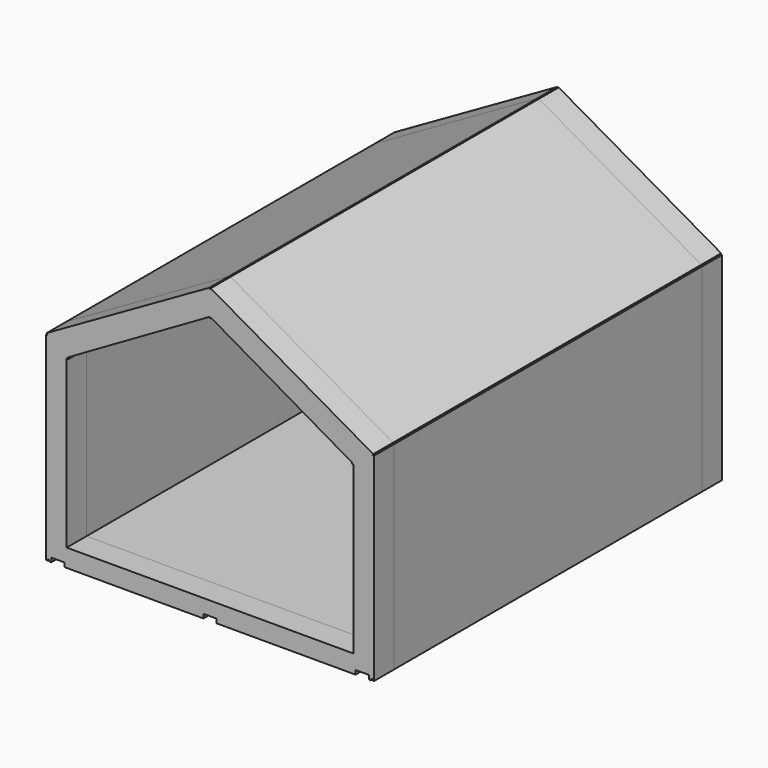
from build123d import *

# Parameters (mm, degrees)
F1_DEPTH = 4664
F2_DEPTH = 300
F3_DEPTH = 300


with BuildPart() as f1:
    # F0 (on Front) → F1 (new body)
    with BuildSketch(Plane.XZ):
        Polygon((3294.6332816305, -244.3458880704), (3294.6332816305, -258.3458880704), (3312.6332816305, -258.3458880704), (3312.6332816305, 2141.6541119296), (3294.6332816305, 2141.6541119296), align=None)
        Polygon((3274.6332816305, -244.3458880704), (3294.6332816305, -244.3458880704), (3294.6332816305, 2141.6541119296), (2775.2804956467, 2141.656879555), (3044.6332816305, 1985.7301119296), (3044.6332816305, 1967.7301119296), (3062.6332816303, 1967.7300208224), (3062.6332816305, -9.0428880704), (3062.6332816305, -27.0428880704), (3062.6332816305, -45.0428880704), (1328.4552816305, -45.0384992861), (1328.4552816305, -212.3458880704), (1408.4552816305, -212.3458880704), (1408.4552816305, -262.3458880704), (3089.6332816305, -262.3458880704), (3089.6332816305, -212.3458880704), (3249.6332816305, -212.3458880704), (3249.6332816305, -262.3458880704), (3274.6332816305, -262.3458880704), align=None)
        Polygon((2775.2804956467, 2141.656879555), (3294.6332816305, 2141.6541119296), (1328.4552816305, 3268.8451119296), (1328.4552816305, 2976.4171119296), (1328.4552816305, 2958.4171119296), (1337.4542676775, 2974.0061545598), align=None)
        Polygon((1328.4552816305, 3268.8451119296), (3294.6332816305, 2141.6541119296), (3303.5856912375, 2157.2699488342), (1337.4076912375, 3284.4609488342), align=None)
        Polygon((1328.4552816305, 2976.4171119296), (1328.4552816305, 3268.8451119296), (-637.7227183695, 2141.6750674118), (-122.4174122387, 2141.6723213555), (1319.4563547663, 2974.0061887237), (1328.4552816305, 2958.4171119296), align=None)
        Polygon((-637.7227183695, 2141.6750674118), (1328.4552816305, 3268.8451119296), (1319.5029972882, 3284.4610206465), (-649.0292205303, 2161.3975537515), align=None)
        Polygon((-122.4174122387, 2141.6723213555), (-637.7227183695, 2141.6750674118), (-637.7227183695, -244.3458880704), (-617.7227183695, -244.3458880704), (-617.7227183695, -262.3458880704), (-592.7227183695, -262.3458880704), (-592.7227183695, -212.3458880704), (-432.7227183695, -212.3458880704), (-432.7227183695, -262.3458880704), (1248.4552816305, -262.3458880704), (1248.4552816305, -212.3458880704), (1328.4552816305, -212.3458880704), (1328.4552816305, -45.0384992861), (-405.7227183693, -45.0341105019), (-405.7227183693, -27.0341105019), (-405.7227183693, -9.0341105019), (-405.7227183695, 1967.7387983908), (-387.7227183695, 1967.7387983908), (-396.7216452337, 1983.3278751849), align=None)
        Polygon((-637.7227183695, -244.3458880704), (-637.7227183695, 2141.6750674118), (-655.7227183695, 2141.6541119296), (-655.7227183695, -258.3458880704), (-637.7227183695, -258.3458880704), align=None)
    extrude(amount=F1_DEPTH)


with BuildPart() as f2:
    # F2 (new): a face of the model
    f2_faces = [f1.part.faces().sort_by_distance(p)[0] for p in [
        (3299.955657847, -4664, -251.3458880704),
    ]]
    extrude(f2_faces, amount=F2_DEPTH)


with BuildPart() as f3:
    # F3 (new): a face of the model
    f3_faces = [f1.part.faces().sort_by_distance(p)[0] for p in [
        (3299.955657847, 0, -251.3458880704),
    ]]
    extrude(f3_faces, amount=F3_DEPTH)


solid = Compound([f1.part, f2.part, f3.part])
